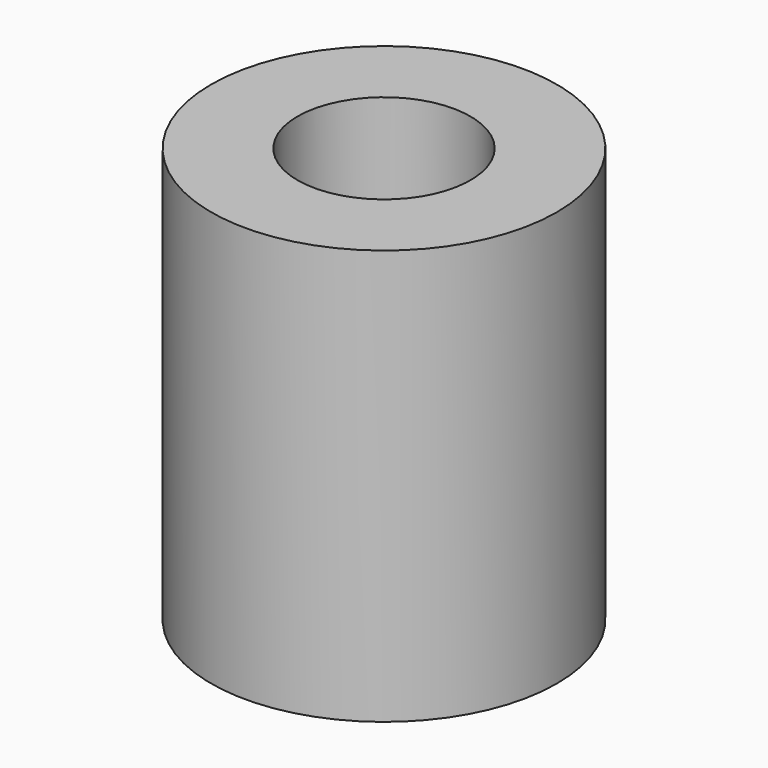
from build123d import *

# Parameters (mm, degrees)
F0_R     = 5
F1_DEPTH = 12
F2_D     = 5


with BuildPart() as f1:
    # F0 (on Top) → F1 (new body)
    with BuildSketch(Plane.XY):
        with Locations((-20.2473346144, 13.7159368023)):
            Circle(F0_R)
    extrude(amount=F1_DEPTH)

    # F2 (through all)
    with Locations(Plane(origin=(0, 0, 0), x_dir=(1, 0, 0), z_dir=(0, 0, -1))):
        with Locations((-20.2473346144, -13.7159368023)):
            Hole(F2_D / 2)


solid = f1.part
